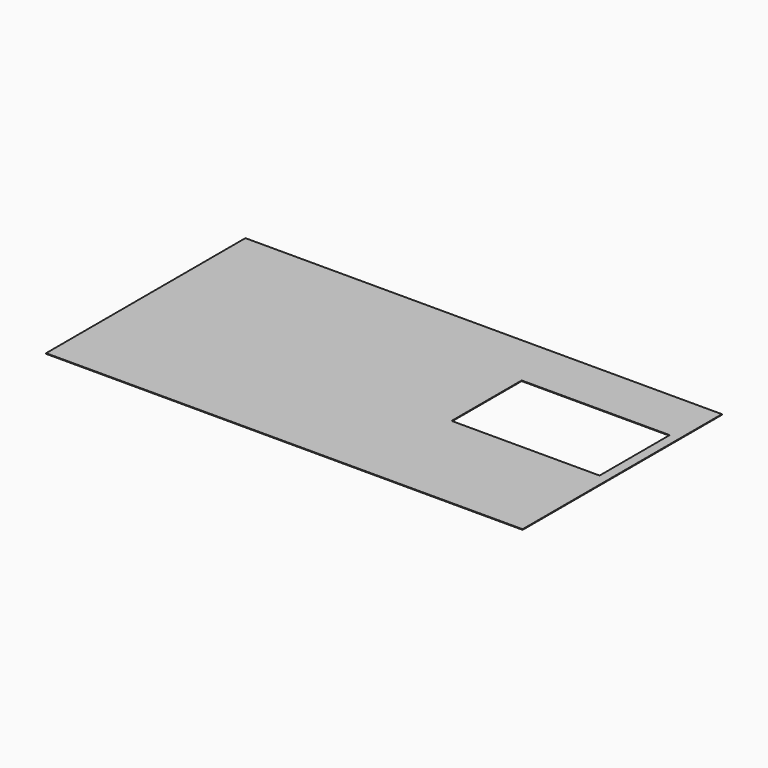
from build123d import *

# Parameters (mm, degrees)
F0_W     = 1578
F0_H     = 825
F0_W_2   = 490
F0_H_2   = 290
F1_DEPTH = 2


with BuildPart() as f1:
    # F0 (on Top) → F1 (new body)
    with BuildSketch(Plane.XY):
        Rectangle(F0_W, F0_H)
        with Locations((511.753256, 91.435906)):
            Rectangle(F0_W_2, F0_H_2, mode=Mode.SUBTRACT)
        Rectangle(F0_W, F0_H)
        with Locations((511.753256, 91.435906)):
            Rectangle(F0_W_2, F0_H_2, mode=Mode.SUBTRACT)
    extrude(amount=F1_DEPTH)


solid = f1.part
